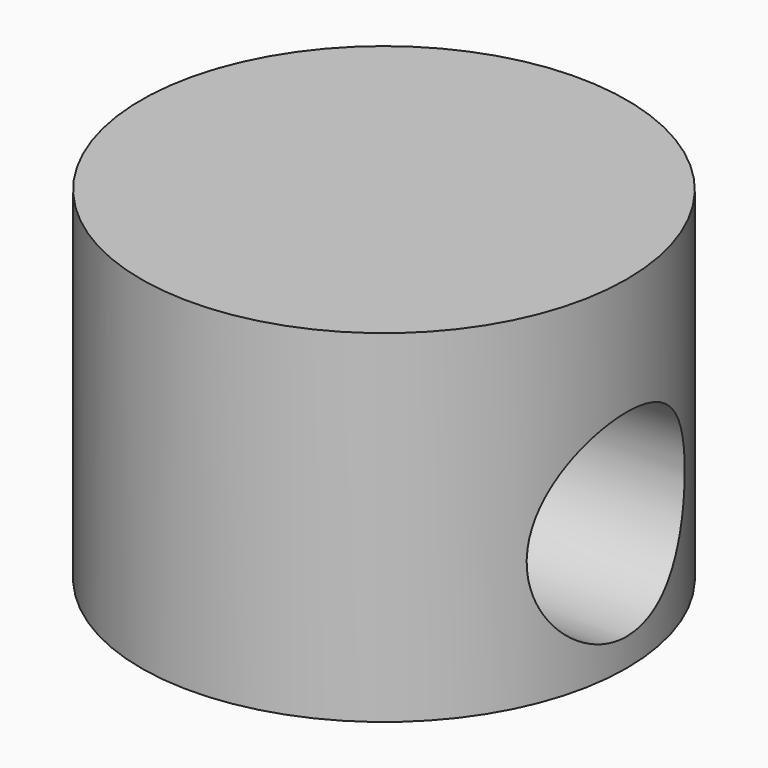
from build123d import *

# Parameters (mm, degrees)
F0_R     = 25.216468
F1_DEPTH = 35.56
F2_W     = 20.449843
F2_H     = 33.23099
F3_DEPTH = 28.956
F5_R     = 10.26144
F6_DEPTH = 65.532


with BuildPart() as f1:
    # F0 (on Top) → F1 (new body)
    with BuildSketch(Plane.XY):
        Circle(F0_R)
    extrude(amount=F1_DEPTH)

    # F2 (on Top) → F3 (cut)
    with BuildSketch(Plane.XY):
        with Locations((-0.383434, 0)):
            Rectangle(F2_W, F2_H)
    extrude(amount=F3_DEPTH, mode=Mode.SUBTRACT)

    # F5 (on offset) → F6 (cut)
    with BuildSketch(Plane.YZ.offset(30.226)):
        with Locations((0, 13.160355)):
            Circle(F5_R)
    extrude(amount=-F6_DEPTH, mode=Mode.SUBTRACT)


solid = f1.part
